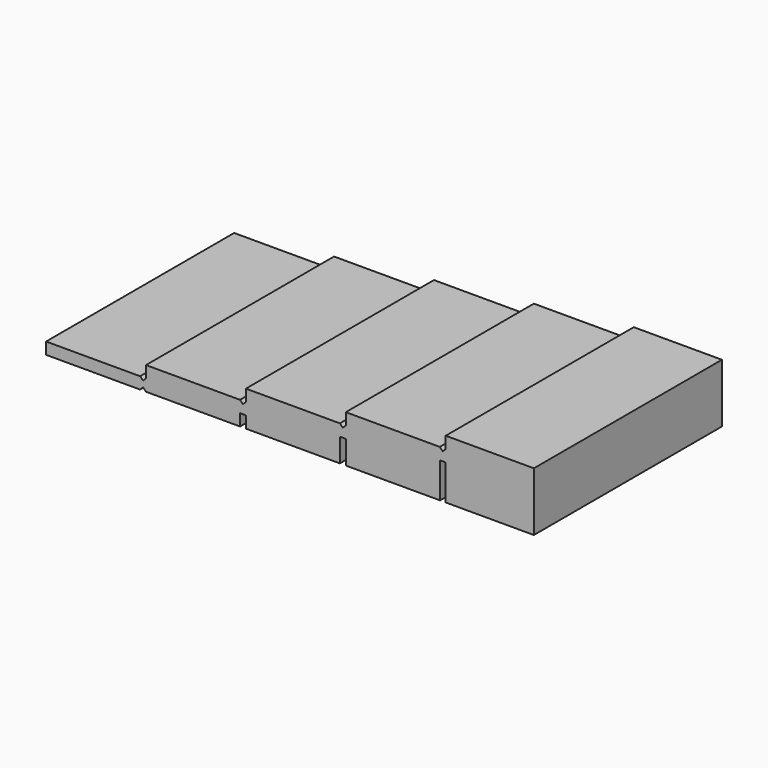
from build123d import *

# Parameters (mm, degrees)
F0_W     = 50
F0_H     = 20
F1_DEPTH = 5
F3_DEPTH = 25
F4_W     = 0.4809010029
F4_H     = 3
F4_W_2   = 0.5
F4_H_2   = 2
F4_H_3   = 1
F5_DEPTH = 25
F7_DEPTH = 25


with BuildPart() as f1:
    # F0 (on Top) → F1 (new body)
    with BuildSketch(Plane.XY):
        with Locations((25, 10)):
            Rectangle(F0_W, F0_H)
    extrude(amount=F1_DEPTH)

    # F2 (on face) → F3 (cut)
    with BuildSketch(Plane.XZ):
        Polygon((0, 5), (0, 0), (42.5, 5), align=None)
    extrude(amount=-F3_DEPTH, mode=Mode.SUBTRACT)

    # F4 (on face) → F5 (cut)
    with BuildSketch(Plane.XZ):
        Polygon((42.5, 5), (34, 4), (42, 4), (42.5, 4), align=None)
        Polygon((34, 4), (25.5, 3), (33.5, 3), (34, 3), align=None)
        Polygon((25.5, 3), (17, 2), (25.0037251041, 2), (25, 2.0037817754), (25.5, 2), align=None)
        Polygon((17, 2), (8.5, 1), (16.5, 1), (17, 1), align=None)
        Polygon((17, 1), (16.5, 1), (16.75, 0.75), align=None)
        Polygon((25, 2.0037817754), (25.0037251041, 2), (25.5, 2), align=None)
        Polygon((25.5, 2), (25.0037251041, 2), (25.2481091664, 1.7518980383), align=None)
        Polygon((34, 3), (33.5, 3), (33.75, 2.75), align=None)
        Polygon((42.5, 4), (42, 4), (42.25, 3.75), align=None)
        Polygon((17, 0), (16.75, 0.25), (16.5, 0), align=None)
        with Locations((42.2595494986, 1.5)):
            Rectangle(F4_W, F4_H)
        with Locations((33.75, 1)):
            Rectangle(F4_W_2, F4_H_2)
        with Locations((25.25, 0.5)):
            Rectangle(F4_W_2, F4_H_3)
    extrude(amount=-F5_DEPTH, mode=Mode.SUBTRACT)

    # F6 (on face) → F7 (cut)
    with BuildSketch(Plane.XZ):
        Polygon((8.5, 0), (8.5, 1), (0, 0), align=None)
    extrude(amount=-F7_DEPTH, mode=Mode.SUBTRACT)


solid = f1.part
